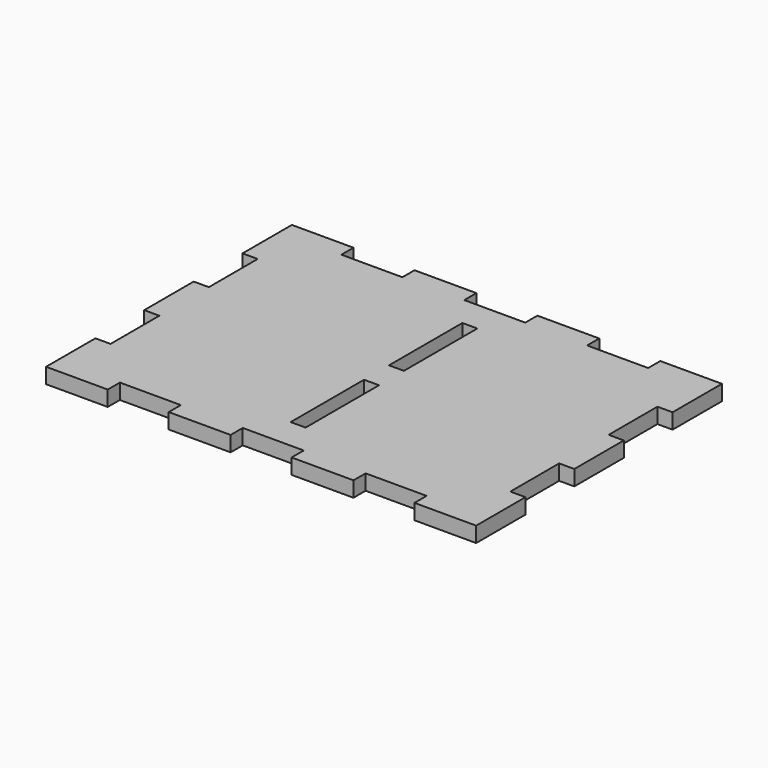
from build123d import *

# Parameters (mm, degrees)
F1_DEPTH = 6.35
F2_W     = 6.1722
F2_H     = 37.9222
F3_DEPTH = 6.351


with BuildPart() as f1:
    # F0 (on Top) → F1 (new body)
    with BuildSketch(Plane.XY):
        Polygon((0, 25.4889), (0, 0), (25.4889, 0), (25.4889, 6.2611), (50.7111, 6.2611), (50.7111, 0), (76.2889, 0), (76.2889, 6.2611), (101.5111, 6.2611), (101.5111, 0), (127.0889, 0), (127.0889, 6.2611), (152.3111, 6.2611), (152.3111, 0), (177.8, 0), (177.8, 25.4889), (171.5389, 25.4889), (171.5389, 50.7111), (177.8, 50.7111), (177.8, 76.2889), (171.5389, 76.2889), (171.5389, 101.5111), (177.8, 101.5111), (177.8, 127), (152.3111, 127), (152.3111, 120.7389), (127.0889, 120.7389), (127.0889, 127), (101.5111, 127), (101.5111, 120.7389), (76.2889, 120.7389), (76.2889, 127), (50.7111, 127), (50.7111, 120.7389), (25.4889, 120.7389), (25.4889, 127), (0, 127), (0, 101.5111), (6.2611, 101.5111), (6.2611, 76.2889), (0, 76.2889), (0, 50.7111), (6.2611, 50.7111), (6.2611, 25.4889), align=None)
    extrude(amount=F1_DEPTH)

    # F2 (on face) → F3 (cut, through all)
    with BuildSketch(Plane.XY.offset(6.35)):
        with Locations((88.9, 88.9)):
            Rectangle(F2_W, F2_H)
        with Locations((88.9, 38.1)):
            Rectangle(F2_W, F2_H)
    extrude(amount=-F3_DEPTH, mode=Mode.SUBTRACT)


solid = f1.part
